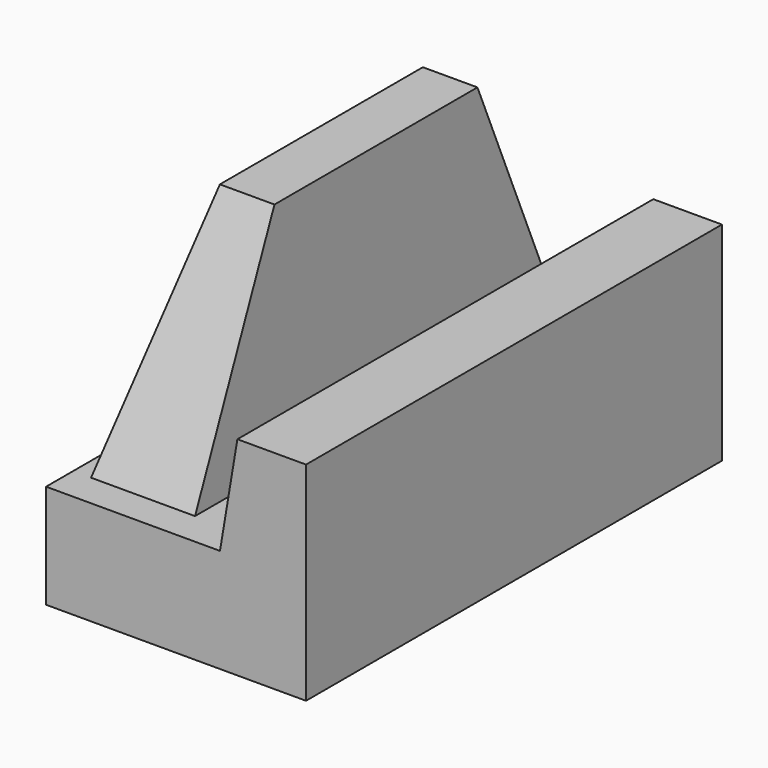
from build123d import *

# Parameters (mm, degrees)
F1_DEPTH = 100
F2_W     = 20
F2_H     = 87
F4_W     = 10.5
F4_H     = 48.8


with BuildPart() as f1:
    # F0 (on Front) → F1 (new body)
    with BuildSketch(Plane.XZ):
        Polygon((-50, 0), (0, 0), (0, 40), (-13.2016703318, 40), (-16.5485225135, 20), (-50, 20), align=None)
    extrude(amount=F1_DEPTH)

    # F2 (on face) → F5 section 0
    with BuildSketch(Plane.XY.offset(20)):
        with Locations((-36.5485225135, -50)):
            Rectangle(F2_W, F2_H)
    # F4 (on offset) → F5 section 1
    with BuildSketch(Plane.XY.offset(65)):
        with Locations((-31.7985225135, -50)):
            Rectangle(F4_W, F4_H)
    loft()


solid = f1.part
